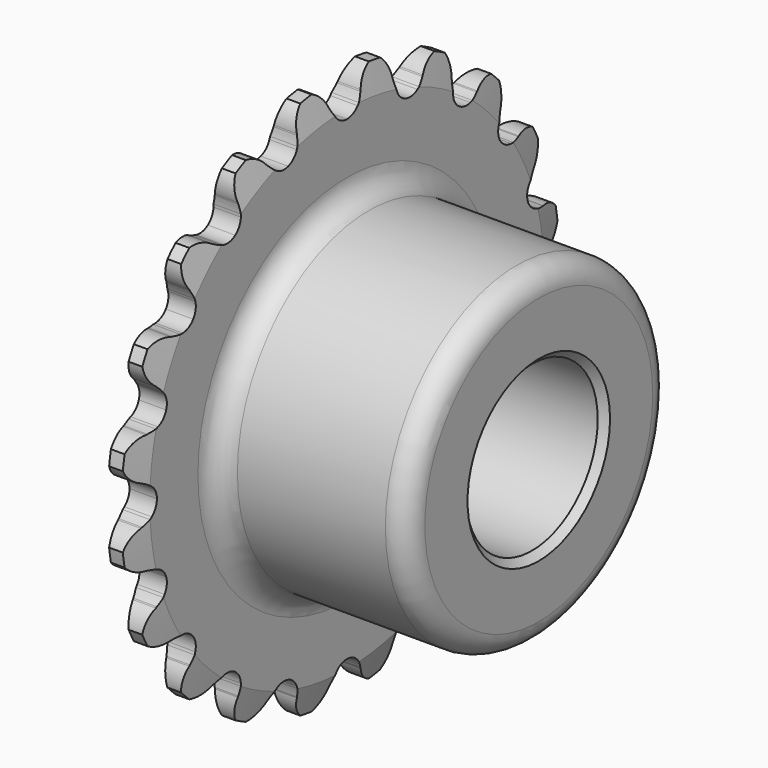
from build123d import *

# Parameters (mm, degrees)
F0_W     = 44.45
F0_H     = 19.05
F0_W_2   = 6.35
F0_H_2   = 25.4
F3_SIZE2 = 6.35
F3_SIZE  = 1.5875
F4_R     = 5.08
F5_SIZE  = 1.5875
F6_DEPTH = 50.801


with BuildPart() as f1:
    # F0 (on Top) → F1 (revolve)
    with BuildSketch(Plane.XY):
        with Locations((28.575, 28.575)):
            Rectangle(F0_W, F0_H)
        with Locations((3.175, 28.575)):
            Rectangle(F0_W_2, F0_H)
        with Locations((3.175, 50.8)):
            Rectangle(F0_W_2, F0_H_2)
    revolve(axis=Axis((38.1, 0, 0), (1, 0, 0)))

    # F3
    f3_edges = [f1.edges().sort_by_distance(p)[0] for p in [
        (6.35, -63.5, 0),
        (0, -63.5, 0),
        (3.175, 63.5, 0),
    ]]
    f3_side = f1.faces().sort_by_distance((3.175, -63.5, 0))[0]
    chamfer(f3_edges, length=F3_SIZE, length2=F3_SIZE2, reference=f3_side)

    # F4
    f4_edges = [f1.edges().sort_by_distance(p)[0] for p in [
        (6.35, -38.1, 0),
        (50.8, -38.1, 0),
    ]]
    fillet(f4_edges, radius=F4_R)

    # F5
    f5_edges = [f1.edges().sort_by_distance(p)[0] for p in [
        (50.8, -19.05, 0),
        (0, -19.05, 0),
    ]]
    chamfer(f5_edges, length=F5_SIZE)

    # F2 (on Right) → F6 (intersect, through all)
    with BuildSketch(Plane.YZ):
        with BuildLine():
            Line((-4.4568878106, 58.7796493474), (-4.5972658624, 59.0262213872))
            ThreePointArc((-4.5972658624, 59.0262213872), (-6.6903591191, 62.0029268154), (-10.0440021318, 63.4153336729))
            ThreePointArc((-10.0440021318, 63.4153336729), (-12.7970484504, 61.0357222435), (-13.8678458668, 57.5579057618))
            Line((-13.8678458668, 57.5579057618), (-13.925158377, 57.2800226128))
            ThreePointArc((-13.925158377, 57.2800226128), (-14.0819705976, 56.2918431597), (-14.3333472825, 55.3233915779))
            ThreePointArc((-14.3333472825, 55.3233915779), (-8.940229677, 56.446388665), (-3.4640448506, 57.0449199603))
            ThreePointArc((-3.4640448506, 57.0449199603), (-4.0023862819, 57.8882924803), (-4.4568878106, 58.7796493474))
        make_face()
        with BuildLine():
            ThreePointArc((4.4568878106, 58.7796493474), (4.0023862819, 57.8882924803), (3.4640448506, 57.0449199603))
            ThreePointArc((3.4640448506, 57.0449199603), (8.940229677, 56.446388665), (14.3333472825, 55.3233915779))
            ThreePointArc((14.3333472825, 55.3233915779), (14.0819705976, 56.2918431597), (13.925158377, 57.2800226128))
            Line((13.925158377, 57.2800226128), (13.8678458668, 57.5579057618))
            ThreePointArc((13.8678458668, 57.5579057618), (12.7970484504, 61.0357222435), (10.0440021318, 63.4153336729))
            ThreePointArc((10.0440021318, 63.4153336729), (6.6903591191, 62.0029268154), (4.5972658624, 59.0262213872))
            Line((4.5972658624, 59.0262213872), (4.4568878106, 58.7796493474))
        make_face()
        with BuildLine():
            ThreePointArc((57.2800226128, 13.925158377), (56.2918431597, 14.0819705976), (55.3233915779, 14.3333472825))
            ThreePointArc((55.3233915779, 14.3333472825), (56.446388665, 8.940229677), (57.0449199603, 3.4640448506))
            ThreePointArc((57.0449199603, 3.4640448506), (57.8882924803, 4.0023862819), (58.7796493474, 4.4568878106))
            Line((58.7796493474, 4.4568878106), (59.0262213872, 4.5972658624))
            ThreePointArc((59.0262213872, 4.5972658624), (62.0029268154, 6.6903591191), (63.4153336729, 10.0440021318))
            ThreePointArc((63.4153336729, 10.0440021318), (61.0357222435, 12.7970484504), (57.5579057618, 13.8678458668))
            Line((57.5579057618, 13.8678458668), (57.2800226128, 13.925158377))
        make_face()
        with BuildLine():
            ThreePointArc((50.1734281716, 30.9441130405), (49.1851560224, 30.7878860802), (48.1864241671, 30.7276915174))
            ThreePointArc((48.1864241671, 30.7276915174), (50.9210228574, 25.9455570601), (53.1824941216, 20.9223521384))
            ThreePointArc((53.1824941216, 20.9223521384), (53.8182324014, 21.6949617059), (54.5255144618, 22.4026627664))
            Line((54.5255144618, 22.4026627664), (54.7166392035, 22.612365178))
            ThreePointArc((54.7166392035, 22.612365178), (56.9008529109, 25.5228677235), (57.2077989724, 29.148829486))
            ThreePointArc((57.2077989724, 29.148829486), (54.0939159174, 31.0317917553), (50.4554212908, 30.9754762196))
            Line((50.4554212908, 30.9754762196), (50.1734281716, 30.9441130405))
        make_face()
        with BuildLine():
            ThreePointArc((38.1555090021, 44.9340423192), (37.2638831204, 44.4800687614), (36.3326338243, 44.1141952141))
            ThreePointArc((36.3326338243, 44.1141952141), (40.4111525448, 40.4111525448), (44.1141952141, 36.3326338243))
            ThreePointArc((44.1141952141, 36.3326338243), (44.4800687614, 37.2638831204), (44.9340423192, 38.1555090021))
            Line((44.9340423192, 38.1555090021), (45.0510111412, 38.4140086403))
            ThreePointArc((45.0510111412, 38.4140086403), (46.2289270719, 41.8570202069), (45.4003663183, 45.4003663183))
            ThreePointArc((45.4003663183, 45.4003663183), (41.8570202069, 46.2289270719), (38.4140086403, 45.0510111412))
            Line((38.4140086403, 45.0510111412), (38.1555090021, 44.9340423192))
        make_face()
        with BuildLine():
            ThreePointArc((22.4026627664, 54.5255144618), (21.6949617059, 53.8182324014), (20.9223521384, 53.1824941216))
            ThreePointArc((20.9223521384, 53.1824941216), (25.9455570601, 50.9210228574), (30.7276915174, 48.1864241671))
            ThreePointArc((30.7276915174, 48.1864241671), (30.7878860802, 49.1851560224), (30.9441130405, 50.1734281716))
            Line((30.9441130405, 50.1734281716), (30.9754762196, 50.4554212908))
            ThreePointArc((30.9754762196, 50.4554212908), (31.0317917553, 54.0939159174), (29.148829486, 57.2077989724))
            ThreePointArc((29.148829486, 57.2077989724), (25.5228677235, 56.9008529109), (22.612365178, 54.7166392035))
            Line((22.612365178, 54.7166392035), (22.4026627664, 54.5255144618))
        make_face()
        with BuildLine():
            ThreePointArc((-30.7276915174, 48.1864241671), (-25.9455570601, 50.9210228574), (-20.9223521384, 53.1824941216))
            ThreePointArc((-20.9223521384, 53.1824941216), (-21.6949617059, 53.8182324014), (-22.4026627664, 54.5255144618))
            Line((-22.4026627664, 54.5255144618), (-22.612365178, 54.7166392035))
            ThreePointArc((-22.612365178, 54.7166392035), (-25.5228677235, 56.9008529109), (-29.148829486, 57.2077989724))
            ThreePointArc((-29.148829486, 57.2077989724), (-31.0317917553, 54.0939159174), (-30.9754762196, 50.4554212908))
            Line((-30.9754762196, 50.4554212908), (-30.9441130405, 50.1734281716))
            ThreePointArc((-30.9441130405, 50.1734281716), (-30.7878860802, 49.1851560224), (-30.7276915174, 48.1864241671))
        make_face()
        with BuildLine():
            ThreePointArc((-44.1141952141, 36.3326338243), (-40.4111525448, 40.4111525448), (-36.3326338243, 44.1141952141))
            ThreePointArc((-36.3326338243, 44.1141952141), (-37.2638831204, 44.4800687614), (-38.1555090021, 44.9340423192))
            Line((-38.1555090021, 44.9340423192), (-38.4140086403, 45.0510111412))
            ThreePointArc((-38.4140086403, 45.0510111412), (-41.8570202069, 46.2289270719), (-45.4003663183, 45.4003663183))
            ThreePointArc((-45.4003663183, 45.4003663183), (-46.2289270719, 41.8570202069), (-45.0510111412, 38.4140086403))
            Line((-45.0510111412, 38.4140086403), (-44.9340423192, 38.1555090021))
            ThreePointArc((-44.9340423192, 38.1555090021), (-44.4800687614, 37.2638831204), (-44.1141952141, 36.3326338243))
        make_face()
        with BuildLine():
            ThreePointArc((-53.1824941216, 20.9223521384), (-50.9210228574, 25.9455570601), (-48.1864241671, 30.7276915174))
            ThreePointArc((-48.1864241671, 30.7276915174), (-49.1851560224, 30.7878860802), (-50.1734281716, 30.9441130405))
            Line((-50.1734281716, 30.9441130405), (-50.4554212908, 30.9754762196))
            ThreePointArc((-50.4554212908, 30.9754762196), (-54.0939159174, 31.0317917553), (-57.2077989724, 29.148829486))
            ThreePointArc((-57.2077989724, 29.148829486), (-56.9008529109, 25.5228677235), (-54.7166392035, 22.612365178))
            Line((-54.7166392035, 22.612365178), (-54.5255144618, 22.4026627664))
            ThreePointArc((-54.5255144618, 22.4026627664), (-53.8182324014, 21.6949617059), (-53.1824941216, 20.9223521384))
        make_face()
        with BuildLine():
            ThreePointArc((-57.0449199603, 3.4640448506), (-56.446388665, 8.940229677), (-55.3233915779, 14.3333472825))
            ThreePointArc((-55.3233915779, 14.3333472825), (-56.2918431597, 14.0819705976), (-57.2800226128, 13.925158377))
            Line((-57.2800226128, 13.925158377), (-57.5579057618, 13.8678458668))
            ThreePointArc((-57.5579057618, 13.8678458668), (-61.0357222435, 12.7970484504), (-63.4153336729, 10.0440021318))
            ThreePointArc((-63.4153336729, 10.0440021318), (-62.0029268154, 6.6903591191), (-59.0262213872, 4.5972658624))
            Line((-59.0262213872, 4.5972658624), (-58.7796493474, 4.4568878106))
            ThreePointArc((-58.7796493474, 4.4568878106), (-57.8882924803, 4.0023862819), (-57.0449199603, 3.4640448506))
        make_face()
        with BuildLine():
            ThreePointArc((-55.3233915779, -14.3333472825), (-56.446388665, -8.940229677), (-57.0449199603, -3.4640448506))
            ThreePointArc((-57.0449199603, -3.4640448506), (-57.8882924803, -4.0023862819), (-58.7796493474, -4.4568878106))
            Line((-58.7796493474, -4.4568878106), (-59.0262213872, -4.5972658624))
            ThreePointArc((-59.0262213872, -4.5972658624), (-62.0029268154, -6.6903591191), (-63.4153336729, -10.0440021318))
            ThreePointArc((-63.4153336729, -10.0440021318), (-61.0357222435, -12.7970484504), (-57.5579057618, -13.8678458668))
            Line((-57.5579057618, -13.8678458668), (-57.2800226128, -13.925158377))
            ThreePointArc((-57.2800226128, -13.925158377), (-56.2918431597, -14.0819705976), (-55.3233915779, -14.3333472825))
        make_face()
        with BuildLine():
            ThreePointArc((-48.1864241671, -30.7276915174), (-50.9210228574, -25.9455570601), (-53.1824941216, -20.9223521384))
            ThreePointArc((-53.1824941216, -20.9223521384), (-53.8182324014, -21.6949617059), (-54.5255144618, -22.4026627664))
            Line((-54.5255144618, -22.4026627664), (-54.7166392035, -22.612365178))
            ThreePointArc((-54.7166392035, -22.612365178), (-56.9008529109, -25.5228677235), (-57.2077989724, -29.148829486))
            ThreePointArc((-57.2077989724, -29.148829486), (-54.0939159174, -31.0317917553), (-50.4554212908, -30.9754762196))
            Line((-50.4554212908, -30.9754762196), (-50.1734281716, -30.9441130405))
            ThreePointArc((-50.1734281716, -30.9441130405), (-49.1851560224, -30.7878860802), (-48.1864241671, -30.7276915174))
        make_face()
        with BuildLine():
            ThreePointArc((-36.3326338243, -44.1141952141), (-40.4111525448, -40.4111525448), (-44.1141952141, -36.3326338243))
            ThreePointArc((-44.1141952141, -36.3326338243), (-44.4800687614, -37.2638831204), (-44.9340423192, -38.1555090021))
            Line((-44.9340423192, -38.1555090021), (-45.0510111412, -38.4140086403))
            ThreePointArc((-45.0510111412, -38.4140086403), (-46.2289270719, -41.8570202069), (-45.4003663183, -45.4003663183))
            ThreePointArc((-45.4003663183, -45.4003663183), (-41.8570202069, -46.2289270719), (-38.4140086403, -45.0510111412))
            Line((-38.4140086403, -45.0510111412), (-38.1555090021, -44.9340423192))
            ThreePointArc((-38.1555090021, -44.9340423192), (-37.2638831204, -44.4800687614), (-36.3326338243, -44.1141952141))
        make_face()
        with BuildLine():
            ThreePointArc((-20.9223521384, -53.1824941216), (-25.9455570601, -50.9210228574), (-30.7276915174, -48.1864241671))
            ThreePointArc((-30.7276915174, -48.1864241671), (-30.7878860802, -49.1851560224), (-30.9441130405, -50.1734281716))
            Line((-30.9441130405, -50.1734281716), (-30.9754762196, -50.4554212908))
            ThreePointArc((-30.9754762196, -50.4554212908), (-31.0317917553, -54.0939159174), (-29.148829486, -57.2077989724))
            ThreePointArc((-29.148829486, -57.2077989724), (-25.5228677235, -56.9008529109), (-22.612365178, -54.7166392035))
            Line((-22.612365178, -54.7166392035), (-22.4026627664, -54.5255144618))
            ThreePointArc((-22.4026627664, -54.5255144618), (-21.6949617059, -53.8182324014), (-20.9223521384, -53.1824941216))
        make_face()
        with BuildLine():
            ThreePointArc((-3.4640448506, -57.0449199603), (-8.940229677, -56.446388665), (-14.3333472825, -55.3233915779))
            ThreePointArc((-14.3333472825, -55.3233915779), (-14.0819705976, -56.2918431597), (-13.925158377, -57.2800226128))
            Line((-13.925158377, -57.2800226128), (-13.8678458668, -57.5579057618))
            ThreePointArc((-13.8678458668, -57.5579057618), (-12.7970484504, -61.0357222435), (-10.0440021318, -63.4153336729))
            ThreePointArc((-10.0440021318, -63.4153336729), (-6.6903591191, -62.0029268154), (-4.5972658624, -59.0262213872))
            Line((-4.5972658624, -59.0262213872), (-4.4568878106, -58.7796493474))
            ThreePointArc((-4.4568878106, -58.7796493474), (-4.0023862819, -57.8882924803), (-3.4640448506, -57.0449199603))
        make_face()
        with BuildLine():
            ThreePointArc((13.925158377, -57.2800226128), (14.0819705976, -56.2918431597), (14.3333472825, -55.3233915779))
            ThreePointArc((14.3333472825, -55.3233915779), (8.940229677, -56.446388665), (3.4640448506, -57.0449199603))
            ThreePointArc((3.4640448506, -57.0449199603), (4.0023862819, -57.8882924803), (4.4568878106, -58.7796493474))
            Line((4.4568878106, -58.7796493474), (4.5972658624, -59.0262213872))
            ThreePointArc((4.5972658624, -59.0262213872), (6.6903591191, -62.0029268154), (10.0440021318, -63.4153336729))
            ThreePointArc((10.0440021318, -63.4153336729), (12.7970484504, -61.0357222435), (13.8678458668, -57.5579057618))
            Line((13.8678458668, -57.5579057618), (13.925158377, -57.2800226128))
        make_face()
        with BuildLine():
            ThreePointArc((30.9441130405, -50.1734281716), (30.7878860802, -49.1851560224), (30.7276915174, -48.1864241671))
            ThreePointArc((30.7276915174, -48.1864241671), (25.9455570601, -50.9210228574), (20.9223521384, -53.1824941216))
            ThreePointArc((20.9223521384, -53.1824941216), (21.6949617059, -53.8182324014), (22.4026627664, -54.5255144618))
            Line((22.4026627664, -54.5255144618), (22.612365178, -54.7166392035))
            ThreePointArc((22.612365178, -54.7166392035), (25.5228677235, -56.9008529109), (29.148829486, -57.2077989724))
            ThreePointArc((29.148829486, -57.2077989724), (31.0317917553, -54.0939159174), (30.9754762196, -50.4554212908))
            Line((30.9754762196, -50.4554212908), (30.9441130405, -50.1734281716))
        make_face()
        with BuildLine():
            ThreePointArc((44.9340423192, -38.1555090021), (44.4800687614, -37.2638831204), (44.1141952141, -36.3326338243))
            ThreePointArc((44.1141952141, -36.3326338243), (40.4111525448, -40.4111525448), (36.3326338243, -44.1141952141))
            ThreePointArc((36.3326338243, -44.1141952141), (37.2638831204, -44.4800687614), (38.1555090021, -44.9340423192))
            Line((38.1555090021, -44.9340423192), (38.4140086403, -45.0510111412))
            ThreePointArc((38.4140086403, -45.0510111412), (41.8570202069, -46.2289270719), (45.4003663183, -45.4003663183))
            ThreePointArc((45.4003663183, -45.4003663183), (46.2289270719, -41.8570202069), (45.0510111412, -38.4140086403))
            Line((45.0510111412, -38.4140086403), (44.9340423192, -38.1555090021))
        make_face()
        with BuildLine():
            ThreePointArc((54.5255144618, -22.4026627664), (53.8182324014, -21.6949617059), (53.1824941216, -20.9223521384))
            ThreePointArc((53.1824941216, -20.9223521384), (50.9210228574, -25.9455570601), (48.1864241671, -30.7276915174))
            ThreePointArc((48.1864241671, -30.7276915174), (49.1851560224, -30.7878860802), (50.1734281716, -30.9441130405))
            Line((50.1734281716, -30.9441130405), (50.4554212908, -30.9754762196))
            ThreePointArc((50.4554212908, -30.9754762196), (54.0939159174, -31.0317917553), (57.2077989724, -29.148829486))
            ThreePointArc((57.2077989724, -29.148829486), (56.9008529109, -25.5228677235), (54.7166392035, -22.612365178))
            Line((54.7166392035, -22.612365178), (54.5255144618, -22.4026627664))
        make_face()
        with BuildLine():
            ThreePointArc((58.7796493474, -4.4568878106), (57.8882924803, -4.0023862819), (57.0449199603, -3.4640448506))
            ThreePointArc((57.0449199603, -3.4640448506), (56.446388665, -8.940229677), (55.3233915779, -14.3333472825))
            ThreePointArc((55.3233915779, -14.3333472825), (56.2918431597, -14.0819705976), (57.2800226128, -13.925158377))
            Line((57.2800226128, -13.925158377), (57.5579057618, -13.8678458668))
            ThreePointArc((57.5579057618, -13.8678458668), (61.0357222435, -12.7970484504), (63.4153336729, -10.0440021318))
            ThreePointArc((63.4153336729, -10.0440021318), (62.0029268154, -6.6903591191), (59.0262213872, -4.5972658624))
            Line((59.0262213872, -4.5972658624), (58.7796493474, -4.4568878106))
        make_face()
        with BuildLine():
            ThreePointArc((-3.0902142758, 56.5494408338), (-3.280839868, 56.7943810352), (-3.4640448506, 57.0449199603))
            ThreePointArc((-3.4640448506, 57.0449199603), (-8.940229677, 56.446388665), (-14.3333472825, 55.3233915779))
            ThreePointArc((-14.3333472825, 55.3233915779), (-14.4301647895, 55.0285014475), (-14.5357698163, 54.7366429253))
            ThreePointArc((-14.5357698163, 54.7366429253), (-15.5073493137, 53.2722197228), (-17.0167006326, 52.3720193941))
            ThreePointArc((-17.0167006326, 52.3720193941), (-18.7669159775, 52.2131223126), (-20.4137066638, 52.8267854704))
            ThreePointArc((-20.4137066638, 52.8267854704), (-20.6706930602, 53.0008308975), (-20.9223521384, 53.1824941216))
            ThreePointArc((-20.9223521384, 53.1824941216), (-25.9455570601, 50.9210228574), (-30.7276915174, 48.1864241671))
            ThreePointArc((-30.7276915174, 48.1864241671), (-30.7286443766, 47.876048732), (-30.7388914821, 47.5658410347))
            ThreePointArc((-30.7388914821, 47.5658410347), (-31.2103868377, 45.8728572293), (-32.367688045, 44.5503006326))
            ThreePointArc((-32.367688045, 44.5503006326), (-33.9831398551, 43.8583342425), (-35.7389632129, 43.9330762792))
            ThreePointArc((-35.7389632129, 43.9330762792), (-36.0371547946, 44.019190153), (-36.3326338243, 44.1141952141))
            ThreePointArc((-36.3326338243, 44.1141952141), (-40.4111525448, 40.4111525448), (-44.1141952141, 36.3326338243))
            ThreePointArc((-44.1141952141, 36.3326338243), (-44.019190153, 36.0371547946), (-43.9330762792, 35.7389632129))
            ThreePointArc((-43.9330762792, 35.7389632129), (-43.8583342425, 33.9831398551), (-44.5503006326, 32.367688045))
            ThreePointArc((-44.5503006326, 32.367688045), (-45.8728572293, 31.2103868377), (-47.5658410347, 30.7388914821))
            ThreePointArc((-47.5658410347, 30.7388914821), (-47.876048732, 30.7286443766), (-48.1864241671, 30.7276915174))
            ThreePointArc((-48.1864241671, 30.7276915174), (-50.9210228574, 25.9455570601), (-53.1824941216, 20.9223521384))
            ThreePointArc((-53.1824941216, 20.9223521384), (-53.0008308975, 20.6706930602), (-52.8267854704, 20.4137066638))
            ThreePointArc((-52.8267854704, 20.4137066638), (-52.2131223126, 18.7669159775), (-52.3720193941, 17.0167006326))
            ThreePointArc((-52.3720193941, 17.0167006326), (-53.2722197228, 15.5073493137), (-54.7366429253, 14.5357698163))
            ThreePointArc((-54.7366429253, 14.5357698163), (-55.0285014475, 14.4301647895), (-55.3233915779, 14.3333472825))
            ThreePointArc((-55.3233915779, 14.3333472825), (-56.446388665, 8.940229677), (-57.0449199603, 3.4640448506))
            ThreePointArc((-57.0449199603, 3.4640448506), (-56.7943810352, 3.280839868), (-56.5494408338, 3.0902142758))
            ThreePointArc((-56.5494408338, 3.0902142758), (-55.4569261806, 1.7136556072), (-55.0672, 0))
            ThreePointArc((-55.0672, 0), (-55.4569261806, -1.7136556072), (-56.5494408338, -3.0902142758))
            ThreePointArc((-56.5494408338, -3.0902142758), (-56.7943810352, -3.280839868), (-57.0449199603, -3.4640448506))
            ThreePointArc((-57.0449199603, -3.4640448506), (-56.446388665, -8.940229677), (-55.3233915779, -14.3333472825))
            ThreePointArc((-55.3233915779, -14.3333472825), (-55.0285014475, -14.4301647895), (-54.7366429253, -14.5357698163))
            ThreePointArc((-54.7366429253, -14.5357698163), (-53.2722197228, -15.5073493137), (-52.3720193941, -17.0167006326))
            ThreePointArc((-52.3720193941, -17.0167006326), (-52.2131223126, -18.7669159775), (-52.8267854704, -20.4137066638))
            ThreePointArc((-52.8267854704, -20.4137066638), (-53.0008308975, -20.6706930602), (-53.1824941216, -20.9223521384))
            ThreePointArc((-53.1824941216, -20.9223521384), (-50.9210228574, -25.9455570601), (-48.1864241671, -30.7276915174))
            ThreePointArc((-48.1864241671, -30.7276915174), (-47.876048732, -30.7286443766), (-47.5658410347, -30.7388914821))
            ThreePointArc((-47.5658410347, -30.7388914821), (-45.8728572293, -31.2103868377), (-44.5503006326, -32.367688045))
            ThreePointArc((-44.5503006326, -32.367688045), (-43.8583342425, -33.9831398551), (-43.9330762792, -35.7389632129))
            ThreePointArc((-43.9330762792, -35.7389632129), (-44.019190153, -36.0371547946), (-44.1141952141, -36.3326338243))
            ThreePointArc((-44.1141952141, -36.3326338243), (-40.4111525448, -40.4111525448), (-36.3326338243, -44.1141952141))
            ThreePointArc((-36.3326338243, -44.1141952141), (-36.0371547946, -44.019190153), (-35.7389632129, -43.9330762792))
            ThreePointArc((-35.7389632129, -43.9330762792), (-33.9831398551, -43.8583342425), (-32.367688045, -44.5503006326))
            ThreePointArc((-32.367688045, -44.5503006326), (-31.2103868377, -45.8728572293), (-30.7388914821, -47.5658410347))
            ThreePointArc((-30.7388914821, -47.5658410347), (-30.7286443766, -47.876048732), (-30.7276915174, -48.1864241671))
            ThreePointArc((-30.7276915174, -48.1864241671), (-25.9455570601, -50.9210228574), (-20.9223521384, -53.1824941216))
            ThreePointArc((-20.9223521384, -53.1824941216), (-20.6706930602, -53.0008308975), (-20.4137066638, -52.8267854704))
            ThreePointArc((-20.4137066638, -52.8267854704), (-18.7669159775, -52.2131223126), (-17.0167006326, -52.3720193941))
            ThreePointArc((-17.0167006326, -52.3720193941), (-15.5073493137, -53.2722197228), (-14.5357698163, -54.7366429253))
            ThreePointArc((-14.5357698163, -54.7366429253), (-14.4301647895, -55.0285014475), (-14.3333472825, -55.3233915779))
            ThreePointArc((-14.3333472825, -55.3233915779), (-8.940229677, -56.446388665), (-3.4640448506, -57.0449199603))
            ThreePointArc((-3.4640448506, -57.0449199603), (-3.280839868, -56.7943810352), (-3.0902142758, -56.5494408338))
            ThreePointArc((-3.0902142758, -56.5494408338), (-1.7136556072, -55.4569261806), (0, -55.0672))
            ThreePointArc((0, -55.0672), (1.7136556072, -55.4569261806), (3.0902142758, -56.5494408338))
            ThreePointArc((3.0902142758, -56.5494408338), (3.280839868, -56.7943810352), (3.4640448506, -57.0449199603))
            ThreePointArc((3.4640448506, -57.0449199603), (8.940229677, -56.446388665), (14.3333472825, -55.3233915779))
            ThreePointArc((14.3333472825, -55.3233915779), (14.4301647895, -55.0285014475), (14.5357698163, -54.7366429253))
            ThreePointArc((14.5357698163, -54.7366429253), (15.5073493137, -53.2722197228), (17.0167006326, -52.3720193941))
            ThreePointArc((17.0167006326, -52.3720193941), (18.7669159775, -52.2131223126), (20.4137066638, -52.8267854704))
            ThreePointArc((20.4137066638, -52.8267854704), (20.6706930602, -53.0008308975), (20.9223521384, -53.1824941216))
            ThreePointArc((20.9223521384, -53.1824941216), (25.9455570601, -50.9210228574), (30.7276915174, -48.1864241671))
            ThreePointArc((30.7276915174, -48.1864241671), (30.7286443766, -47.876048732), (30.7388914821, -47.5658410347))
            ThreePointArc((30.7388914821, -47.5658410347), (31.2103868377, -45.8728572293), (32.367688045, -44.5503006326))
            ThreePointArc((32.367688045, -44.5503006326), (33.9831398551, -43.8583342425), (35.7389632129, -43.9330762792))
            ThreePointArc((35.7389632129, -43.9330762792), (36.0371547946, -44.019190153), (36.3326338243, -44.1141952141))
            ThreePointArc((36.3326338243, -44.1141952141), (40.4111525448, -40.4111525448), (44.1141952141, -36.3326338243))
            ThreePointArc((44.1141952141, -36.3326338243), (44.019190153, -36.0371547946), (43.9330762792, -35.7389632129))
            ThreePointArc((43.9330762792, -35.7389632129), (43.8583342425, -33.9831398551), (44.5503006326, -32.367688045))
            ThreePointArc((44.5503006326, -32.367688045), (45.8728572293, -31.2103868377), (47.5658410347, -30.7388914821))
            ThreePointArc((47.5658410347, -30.7388914821), (47.876048732, -30.7286443766), (48.1864241671, -30.7276915174))
            ThreePointArc((48.1864241671, -30.7276915174), (50.9210228574, -25.9455570601), (53.1824941216, -20.9223521384))
            ThreePointArc((53.1824941216, -20.9223521384), (53.0008308975, -20.6706930602), (52.8267854704, -20.4137066638))
            ThreePointArc((52.8267854704, -20.4137066638), (52.2131223126, -18.7669159775), (52.3720193941, -17.0167006326))
            ThreePointArc((52.3720193941, -17.0167006326), (53.2722197228, -15.5073493137), (54.7366429253, -14.5357698163))
            ThreePointArc((54.7366429253, -14.5357698163), (55.0285014475, -14.4301647895), (55.3233915779, -14.3333472825))
            ThreePointArc((55.3233915779, -14.3333472825), (56.446388665, -8.940229677), (57.0449199603, -3.4640448506))
            ThreePointArc((57.0449199603, -3.4640448506), (56.7943810352, -3.280839868), (56.5494408338, -3.0902142758))
            ThreePointArc((56.5494408338, -3.0902142758), (55.4569261806, -1.7136556072), (55.0672, 0))
            ThreePointArc((55.0672, 0), (55.4569261806, 1.7136556072), (56.5494408338, 3.0902142758))
            ThreePointArc((56.5494408338, 3.0902142758), (56.7943810352, 3.280839868), (57.0449199603, 3.4640448506))
            ThreePointArc((57.0449199603, 3.4640448506), (56.446388665, 8.940229677), (55.3233915779, 14.3333472825))
            ThreePointArc((55.3233915779, 14.3333472825), (55.0285014475, 14.4301647895), (54.7366429253, 14.5357698163))
            ThreePointArc((54.7366429253, 14.5357698163), (53.2722197228, 15.5073493137), (52.3720193941, 17.0167006326))
            ThreePointArc((52.3720193941, 17.0167006326), (52.2131223126, 18.7669159775), (52.8267854704, 20.4137066638))
            ThreePointArc((52.8267854704, 20.4137066638), (53.0008308975, 20.6706930602), (53.1824941216, 20.9223521384))
            ThreePointArc((53.1824941216, 20.9223521384), (50.9210228574, 25.9455570601), (48.1864241671, 30.7276915174))
            ThreePointArc((48.1864241671, 30.7276915174), (47.876048732, 30.7286443766), (47.5658410347, 30.7388914821))
            ThreePointArc((47.5658410347, 30.7388914821), (45.8728572293, 31.2103868377), (44.5503006326, 32.367688045))
            ThreePointArc((44.5503006326, 32.367688045), (43.8583342425, 33.9831398551), (43.9330762792, 35.7389632129))
            ThreePointArc((43.9330762792, 35.7389632129), (44.019190153, 36.0371547946), (44.1141952141, 36.3326338243))
            ThreePointArc((44.1141952141, 36.3326338243), (40.4111525448, 40.4111525448), (36.3326338243, 44.1141952141))
            ThreePointArc((36.3326338243, 44.1141952141), (36.0371547946, 44.019190153), (35.7389632129, 43.9330762792))
            ThreePointArc((35.7389632129, 43.9330762792), (33.9831398551, 43.8583342425), (32.367688045, 44.5503006326))
            ThreePointArc((32.367688045, 44.5503006326), (31.2103868377, 45.8728572293), (30.7388914821, 47.5658410347))
            ThreePointArc((30.7388914821, 47.5658410347), (30.7286443766, 47.876048732), (30.7276915174, 48.1864241671))
            ThreePointArc((30.7276915174, 48.1864241671), (25.9455570601, 50.9210228574), (20.9223521384, 53.1824941216))
            ThreePointArc((20.9223521384, 53.1824941216), (20.6706930602, 53.0008308975), (20.4137066638, 52.8267854704))
            ThreePointArc((20.4137066638, 52.8267854704), (18.7669159775, 52.2131223126), (17.0167006326, 52.3720193941))
            ThreePointArc((17.0167006326, 52.3720193941), (15.5073493137, 53.2722197228), (14.5357698163, 54.7366429253))
            ThreePointArc((14.5357698163, 54.7366429253), (14.4301647895, 55.0285014475), (14.3333472825, 55.3233915779))
            ThreePointArc((14.3333472825, 55.3233915779), (8.940229677, 56.446388665), (3.4640448506, 57.0449199603))
            ThreePointArc((3.4640448506, 57.0449199603), (3.280839868, 56.7943810352), (3.0902142758, 56.5494408338))
            ThreePointArc((3.0902142758, 56.5494408338), (1.7136556072, 55.4569261806), (0, 55.0672))
            ThreePointArc((0, 55.0672), (-1.7136556072, 55.4569261806), (-3.0902142758, 56.5494408338))
        make_face()
    extrude(amount=F6_DEPTH, mode=Mode.INTERSECT)


solid = f1.part
